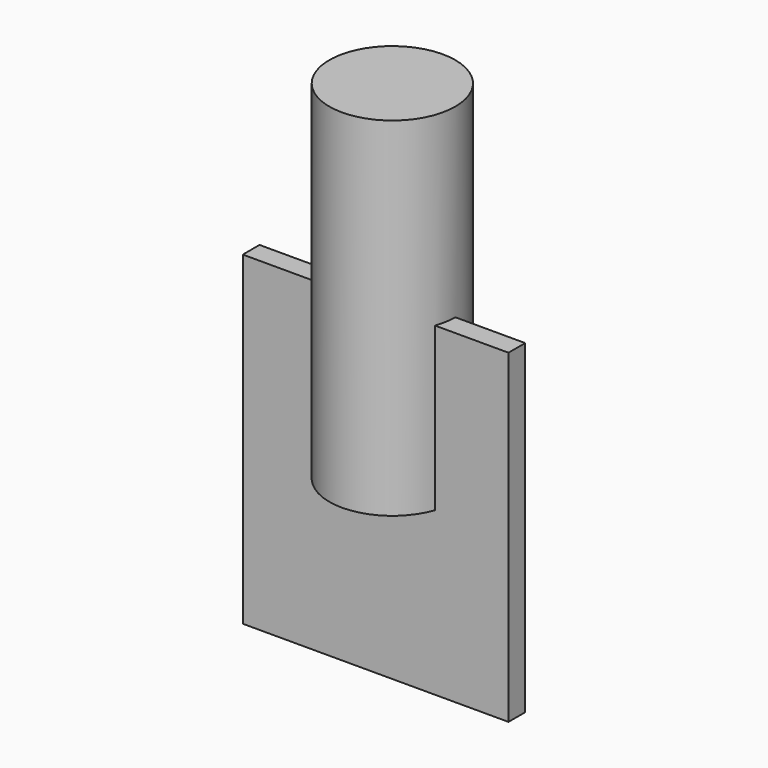
from build123d import *

# Parameters (mm, degrees)
F0_R     = 22.988032
F1_DEPTH = 127
F2_W     = 96.962892
F2_H     = 118.622758
F3_DEPTH = 7.62


with BuildPart() as f1:
    # F0 (on Top) → F1 (new body)
    with BuildSketch(Plane.XY):
        Circle(F0_R)
    extrude(amount=F1_DEPTH)

    # F2 (on Front) → F3 (join)
    with BuildSketch(Plane.XZ):
        Rectangle(F2_W, F2_H)
    extrude(amount=F3_DEPTH)


solid = f1.part
